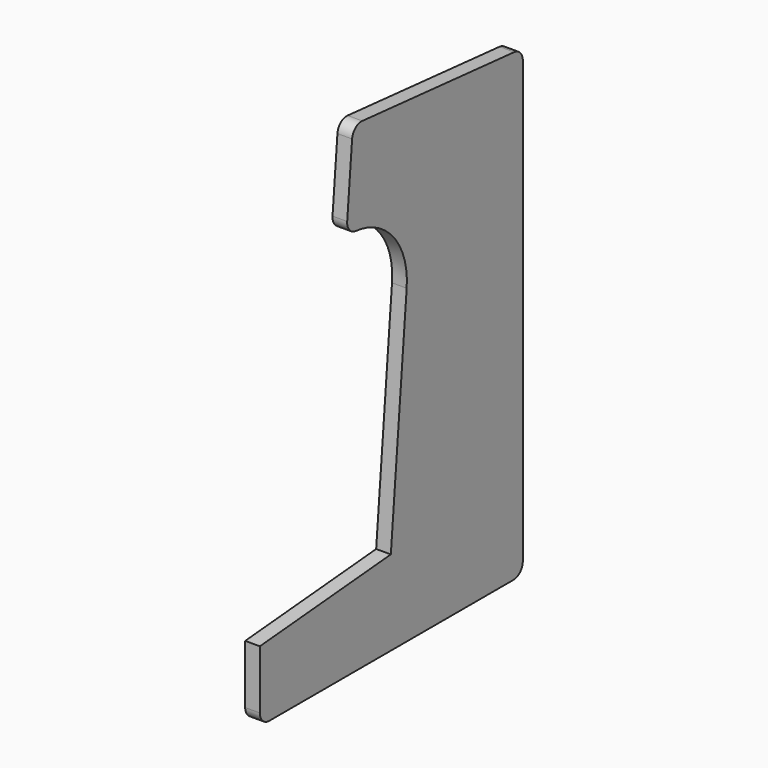
from build123d import *

# Parameters (mm, degrees)
F1_DEPTH = 15.875
F2_R     = 12.7
F3_R     = 76.2


with BuildPart() as f1:
    # F0 (on Right) → F1 (new body)
    with BuildSketch(Plane.YZ):
        Polygon((-355.6, 0), (0, 0), (0, 501.232803), (-229.74942, 521.333272), (-238.604443, 420.119891), (-150.418242, 412.404598), (-178.476583, 91.696291), (-355.6, 76.2), align=None)
    extrude(amount=F1_DEPTH)

    # F2
    f2_edges = [f1.edges().sort_by_distance(p)[0] for p in [
        (7.9375, -355.6, 0),
        (7.9375, 0, 0),
        (7.9375, 0, 501.232803),
        (7.9375, -238.604443, 420.119891),
        (7.9375, -229.74942, 521.333272),
    ]]
    fillet(f2_edges, radius=F2_R)

    # F3
    f3_edges = [f1.edges().sort_by_distance(p)[0] for p in [
        (7.9375, -150.418242, 412.404598),
    ]]
    fillet(f3_edges, radius=F3_R)


solid = f1.part
